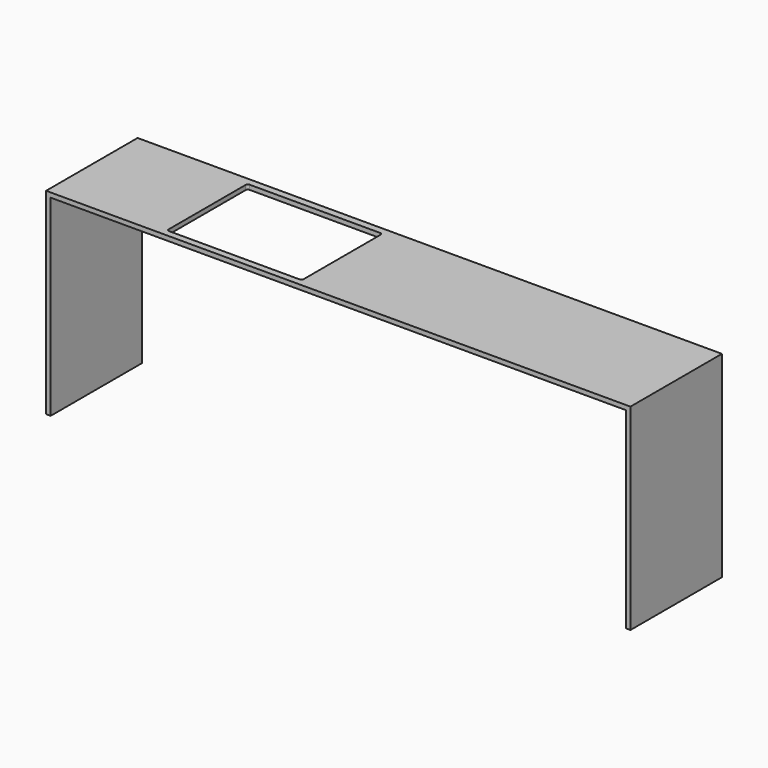
from build123d import *

# Parameters (mm, degrees)
F0_W     = 20
F0_H     = 840
F1_DEPTH = 500
F3_DEPTH = 1397


with BuildPart() as f1:
    # F0 (on Front) → F1 (new body)
    with BuildSketch(Plane.XZ):
        with Locations((-2126.34038, 420)):
            Rectangle(F0_W, F0_H)
        Polygon((-2136.34038, 860), (-2136.34038, 840), (-2116.34038, 840), (398.65962, 840), (418.65962, 840), (418.65962, 860), align=None)
        with Locations((408.65962, 420)):
            Rectangle(F0_W, F0_H)
    extrude(amount=F1_DEPTH)

    # F2 (on Top) → F3 (cut)
    with BuildSketch(Plane.XY):
        with BuildLine():
            Line((-1621.34038, -470.847369), (-1051.34038, -470.847369))
            ThreePointArc((-1051.34038, -470.847369), (-1044.269312, -467.918437), (-1041.34038, -460.847369))
            Line((-1041.34038, -460.847369), (-1041.34038, -40.847369))
            ThreePointArc((-1041.34038, -40.847369), (-1044.269312, -33.776302), (-1051.34038, -30.847369))
            Line((-1051.34038, -30.847369), (-1621.34038, -30.847369))
            ThreePointArc((-1621.34038, -30.847369), (-1628.411448, -33.776302), (-1631.34038, -40.847369))
            Line((-1631.34038, -40.847369), (-1631.34038, -460.847369))
            ThreePointArc((-1631.34038, -460.847369), (-1628.411448, -467.918437), (-1621.34038, -470.847369))
        make_face()
    extrude(amount=F3_DEPTH, mode=Mode.SUBTRACT)


solid = f1.part
